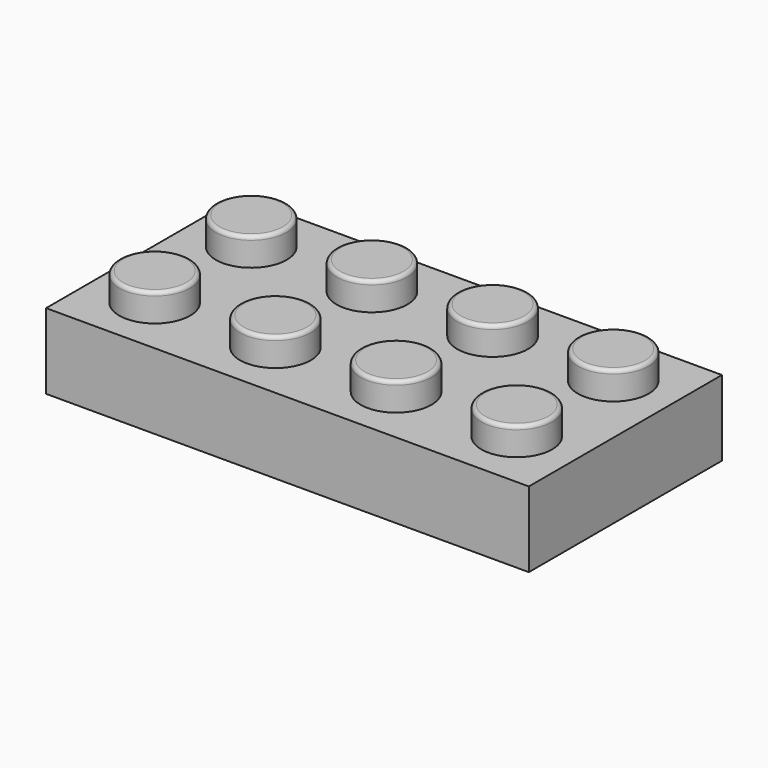
from build123d import *

# Parameters (mm, degrees)
F0_W     = 32.004
F0_H     = 16.002
F1_DEPTH = 5.0038
F2_W     = 29.0068
F2_H     = 13.0048
F3_DEPTH = 3.5052
F4_R     = 3.2512
F4_R_2   = 2.4003
F5_DEPTH = 3.5052
F6_R     = 2.3495
F7_DEPTH = 1.8542
F8_R     = 0.254


with BuildPart() as f1:
    # F0 (on Top) → F1 (new body)
    with BuildSketch(Plane.XY):
        Rectangle(F0_W, F0_H)
    extrude(amount=F1_DEPTH)

    # F2 (on face) → F3 (cut)
    with BuildSketch(Plane(origin=(0, 0, 0), x_dir=(1, 0, 0), z_dir=(0, 0, -1))):
        Rectangle(F2_W, F2_H)
    extrude(amount=-F3_DEPTH, mode=Mode.SUBTRACT)

    # F4 (on face) → F5 (join)
    with BuildSketch(Plane(origin=(0, 0, 3.5052), x_dir=(1, 0, 0), z_dir=(0, 0, -1))):
        Circle(F4_R)
        Circle(F4_R_2, mode=Mode.SUBTRACT)
        with Locations((8.569513, 0)):
            Circle(F4_R)
        with Locations((8.569513, 0)):
            Circle(F4_R_2, mode=Mode.SUBTRACT)
        with Locations((-8.694798, 0)):
            Circle(F4_R)
        with Locations((-8.694798, 0)):
            Circle(F4_R_2, mode=Mode.SUBTRACT)
    extrude(amount=F5_DEPTH)


with BuildPart() as f7:
    # F6 (on face) → F7 (new body)
    with BuildSketch(Plane.XY.offset(5.0038)):
        with Locations((-12.0015, 4.0005)):
            Circle(F6_R)
        with Locations((-4.0005, 4.0005)):
            Circle(F6_R)
        with Locations((4.0005, 4.0005)):
            Circle(F6_R)
        with Locations((12.0015, 4.0005)):
            Circle(F6_R)
        with Locations((-12.0015, -4.0005)):
            Circle(F6_R)
        with Locations((-4.0005, -4.0005)):
            Circle(F6_R)
        with Locations((4.0005, -4.0005)):
            Circle(F6_R)
        with Locations((12.0015, -4.0005)):
            Circle(F6_R)
    extrude(amount=F7_DEPTH)

    # F8
    f8_edges = [f7.edges().sort_by_distance(p)[0] for p in [
        (-14.351, -4.0005, 6.858),
        (-14.351, 4.0005, 6.858),
        (-6.35, -4.0005, 6.858),
        (-6.35, 4.0005, 6.858),
        (1.651, -4.0005, 6.858),
        (1.651, 4.0005, 6.858),
        (9.652, 4.0005, 6.858),
        (9.652, -4.0005, 6.858),
    ]]
    fillet(f8_edges, radius=F8_R)


solid = Compound([f1.part, f7.part])
